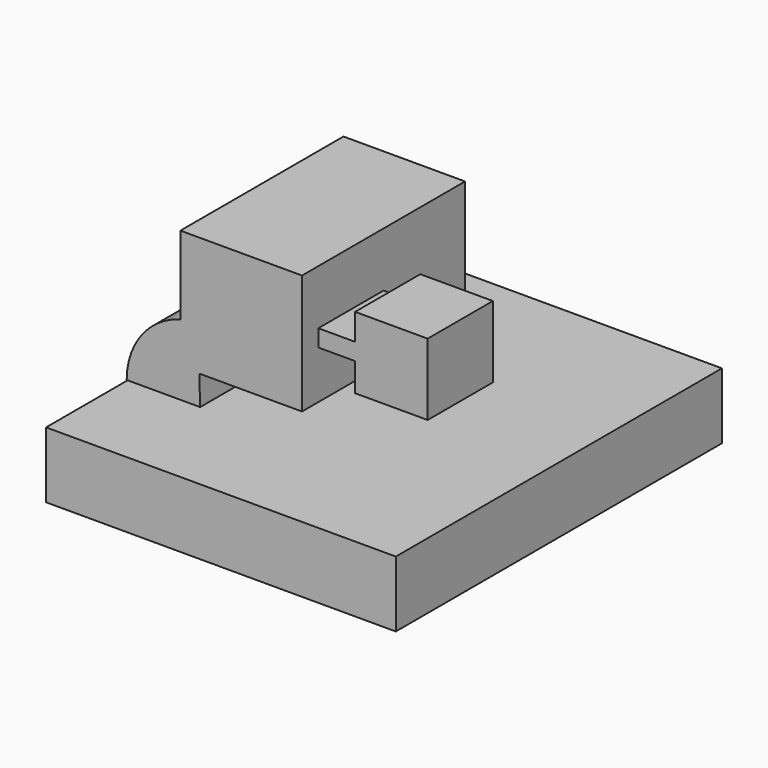
from build123d import *

# Parameters (mm, degrees)
F0_W     = 8.2234106958
F0_H     = 7.1954836603
F1_DEPTH = 31.75
F2_W     = 108.9601889253
F2_H     = 20.5585248768
F3_DEPTH = 63.5
F4_W     = 13.2161937654
F4_H     = 5.2864775062
F4_W_2   = 0.5873870105
F5_DEPTH = 25.4


with BuildPart() as f1:
    # F0 (on Front) → F1 (new body, symmetric)
    with BuildSketch(Plane.XZ):
        Polygon((-19.0900564194, 5.2864807658), (-19.0900564194, -19.0548436975), (-19.0900564194, -32.0125594735), (-13.2161900401, -32.0125594735), (18.796371296, -32.0125594735), (18.796371296, -20.5585230142), (10.5729606003, -20.5585230142), (10.5729606003, -13.3630393539), (18.796371296, -13.3630393539), (18.796371296, 5.2864807658), align=None)
        with Locations((14.6846659482, -16.960781184)):
            Rectangle(F0_W, F0_H)
        with BuildLine():
            ThreePointArc((-19.0900564194, -19.0548436975), (-31.1716974247, -27.2697965826), (-35.8305685222, -41.1170497537))
            Line((-35.8305685222, -41.1170497537), (-12.9224974662, -41.1170497537))
            Line((-12.9224974662, -41.1170497537), (-13.2161900401, -32.0125594735))
            Line((-13.2161900401, -32.0125594735), (-19.0900564194, -32.0125594735))
            Line((-19.0900564194, -32.0125594735), (-19.0900564194, -19.0548436975))
        make_face()
    extrude(amount=F1_DEPTH, both=True)

    # F2 (on Front) → F3 (join, symmetric)
    with BuildSketch(Plane.XZ):
        with Locations((18.9432166517, -51.3963121921)):
            Rectangle(F2_W, F2_H)
    extrude(amount=F3_DEPTH, both=True)

    # F4 (on Front) → F5 (join)
    with BuildSketch(Plane.XZ):
        with Locations((23.6423071474, -14.3909677863)):
            Rectangle(F4_W, F4_H)
        Polygon((30.2504040301, -3.5243185703), (30.2504040301, -11.7477290332), (30.8377910405, -11.7477290332), (30.8377910405, -17.0342065394), (30.2504040301, -17.0342065394), (30.2504040301, -25.845002383), (52.8647787869, -25.845002383), (52.8647787869, -3.5243185703), align=None)
        with Locations((30.5440975353, -14.3909677863)):
            Rectangle(F4_W_2, F4_H)
    extrude(amount=F5_DEPTH)


solid = f1.part
